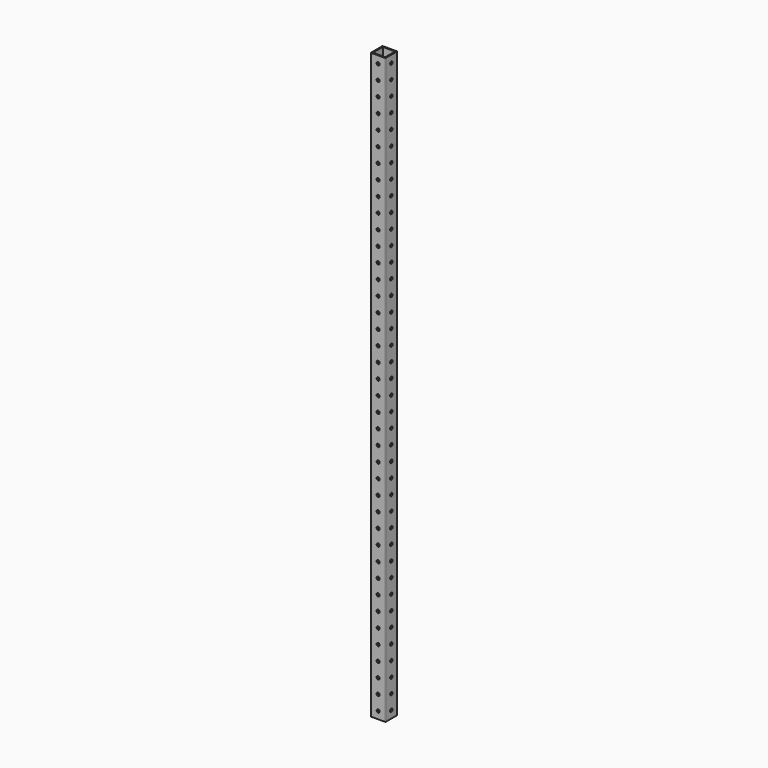
from build123d import *

# Parameters (mm, degrees)
BOX001_W               = 32.1
BOX001_H               = 32.1
BOX001_DEPTH           = 1524
CYLINDER_R             = 4
CYLINDER_DEPTH         = 38.1
CYLINDER_PITCH_ANGLE   = 90
ARRAY001_Z_COUNT       = 40
ARRAY001_Z_PITCH       = 38.1
CYLINDER001_R          = 4
CYLINDER001_DEPTH      = 38.1
CYLINDER001_ROLL_ANGLE = 90
ARRAY_Z_COUNT          = 40
ARRAY_Z_PITCH          = 38.1
BOX_W                  = 38.1
BOX_H                  = 38.1
BOX_DEPTH              = 1524
FILLET_R               = 1


with BuildPart() as cutout:
    # Box001 → Box001 (new body)
    with BuildSketch(Plane(origin=(3, 3, 0), x_dir=(1, 0, 0), z_dir=(0, 0, 1))):
        with Locations((16.05, 16.05)):
            Rectangle(BOX001_W, BOX001_H)
    extrude(amount=BOX001_DEPTH)


with BuildPart() as holes2:
    # Cylinder → Cylinder (new body)
    with BuildSketch(Plane.XY):
        Circle(CYLINDER_R)
    extrude(amount=CYLINDER_DEPTH)


with BuildPart() as holes2_1:
    # Cylinder pitch: moved
    add(holes2.part.rotate(Axis((0, 0, 0), (0, 1, 0)), CYLINDER_PITCH_ANGLE))


with BuildPart() as holes2_2:
    # Cylinder placement: moved
    add(holes2_1.part.moved(Location((0, 19.05, 19.05))))

    # Array001 Z: Holes2 ×40


with BuildPart() as holes2_3:
    add(holes2_2.part)
    with Locations(*[(0, 0, i * ARRAY001_Z_PITCH) for i in range(1, ARRAY001_Z_COUNT)]):
        add(holes2_2.part)


with BuildPart() as holes1:
    # Cylinder001 → Cylinder001 (new body)
    with BuildSketch(Plane.XY):
        Circle(CYLINDER001_R)
    extrude(amount=CYLINDER001_DEPTH)


with BuildPart() as holes1_1:
    # Cylinder001 roll: moved
    add(holes1.part.rotate(Axis((0, 0, 0), (1, 0, 0)), CYLINDER001_ROLL_ANGLE))


with BuildPart() as holes1_2:
    # Cylinder001 placement: moved
    add(holes1_1.part.moved(Location((19.05, 38.1, 19.05))))

    # Array Z: Holes1 ×40


with BuildPart() as holes1_3:
    add(holes1_2.part)
    with Locations(*[(0, 0, i * ARRAY_Z_PITCH) for i in range(1, ARRAY_Z_COUNT)]):
        add(holes1_2.part)


with BuildPart() as cut002:
    # Box → Box (new body)
    with BuildSketch(Plane.XY):
        with Locations((19.05, 19.05)):
            Rectangle(BOX_W, BOX_H)
    extrude(amount=BOX_DEPTH)

    # Fillet
    fillet_edges = [cut002.edges().sort_by_distance(p)[0] for p in [
        (0, 0, 762),
        (38.1, 0, 762),
        (38.1, 38.1, 762),
        (0, 38.1, 762),
    ]]
    fillet(fillet_edges, radius=FILLET_R)

    # Cut: cut Holes1
    add(holes1_3.part, mode=Mode.SUBTRACT)

    # Cut001: cut Holes2
    add(holes2_3.part, mode=Mode.SUBTRACT)

    # Cut002: cut Cutout
    add(cutout.part, mode=Mode.SUBTRACT)


solid = cut002.part
